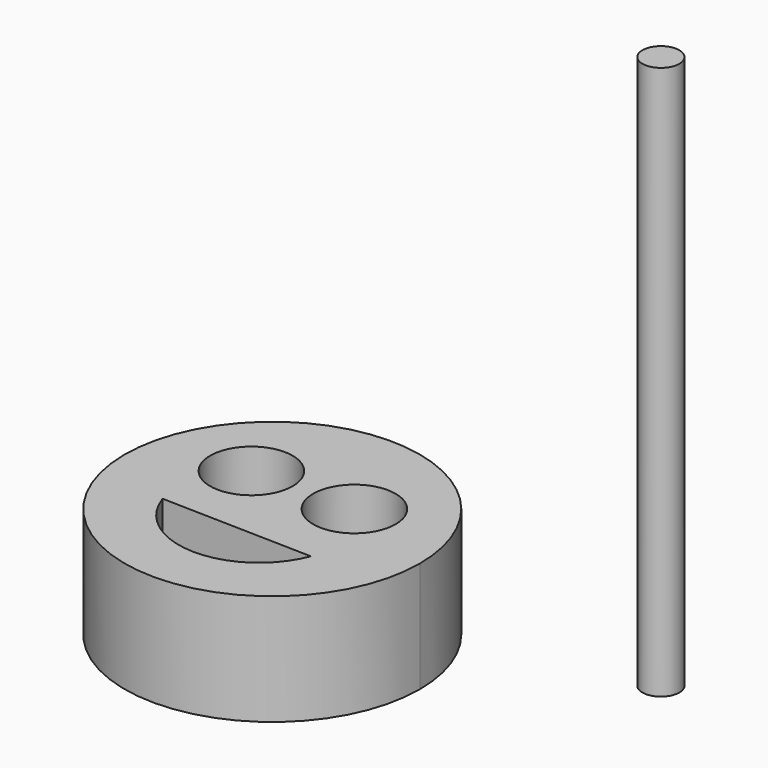
from build123d import *

# Parameters (mm, degrees)
F0_R     = 5.679945
F1_DEPTH = 15.24
F2_R     = 2.54
F3_DEPTH = 76.2


with BuildPart() as f1:
    # F0 (on Top) → F1 (new body)
    with BuildSketch(Plane.XY):
        with BuildLine():
            ThreePointArc((-17.367772, 44.070937), (-31.467282, 9.313475), (3.150763, 23.751907))
            ThreePointArc((3.150763, 23.751907), (-2.871192, 38.190339), (-17.367772, 44.070937))
        make_face()
        with BuildLine():
            ThreePointArc((-7.048942, 17.746177), (-17.640486, 10.669144), (-27.87023, 18.259766))
            Line((-27.87023, 18.259766), (-7.048942, 17.746177))
        make_face(mode=Mode.SUBTRACT)
        with Locations((-24.458495, 29.273391)):
            Circle(F0_R, mode=Mode.SUBTRACT)
        with Locations((-10.277048, 29.273391)):
            Circle(F0_R, mode=Mode.SUBTRACT)
    extrude(amount=F1_DEPTH)


with BuildPart() as f3:
    # F2 (on Top) → F3 (new body)
    with BuildSketch(Plane.XY):
        with Locations((22.869695, 40.58183)):
            Circle(F2_R)
    extrude(amount=F3_DEPTH)


solid = Compound([f1.part, f3.part])
